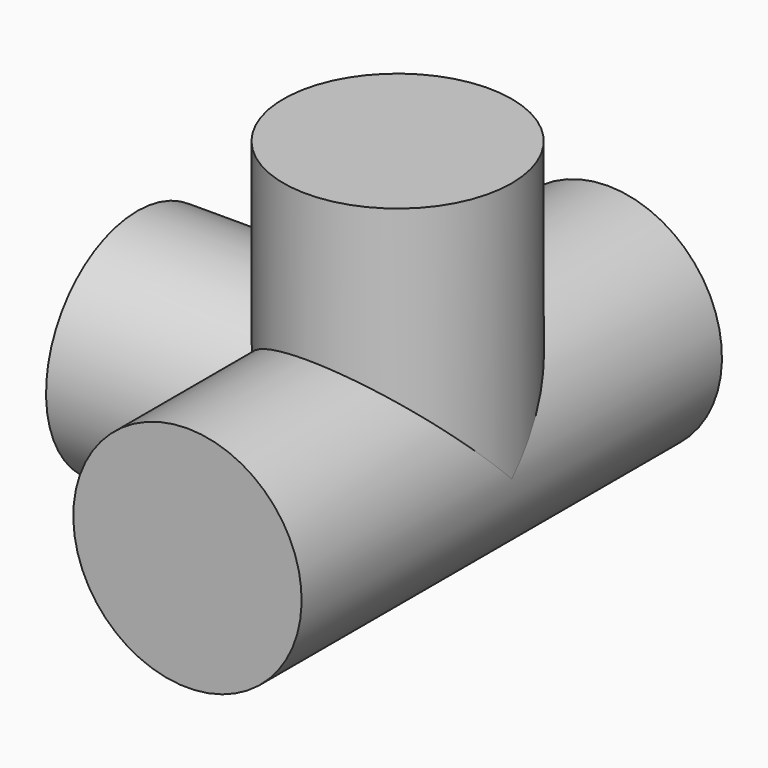
from build123d import *

# Parameters (mm, degrees)
CYLINDER015_R             = 13.9827
CYLINDER015_DEPTH         = 31.877
CYLINDER014_R             = 13.9827
CYLINDER014_DEPTH         = 64.36
CYLINDER016_R             = 13.9827
CYLINDER016_DEPTH         = 31.877
FUSION007_PLACEMENT_ANGLE = 90


with BuildPart() as cylinder015:
    # Cylinder015 → Cylinder015 (new body)
    with BuildSketch(Plane(origin=(0, 0, 0), x_dir=(0, 0, -1), z_dir=(1, 0, 0))):
        Circle(CYLINDER015_R)
    extrude(amount=CYLINDER015_DEPTH)


with BuildPart() as cylinder014:
    # Cylinder014 → Cylinder014 (new body)
    with BuildSketch(Plane.XZ.offset(-32.1818)):
        Circle(CYLINDER014_R)
    extrude(amount=CYLINDER014_DEPTH)


with BuildPart() as f_4_way001:
    # Cylinder016 → Cylinder016 (new body)
    with BuildSketch(Plane.XY):
        Circle(CYLINDER016_R)
    extrude(amount=CYLINDER016_DEPTH)

    # Fusion006: union Cylinder014
    add(cylinder014.part)

    # Fusion007: union Cylinder015
    add(cylinder015.part)


with BuildPart() as f_4_way001_1:
    # Fusion007 placement: moved
    add(f_4_way001.part.moved(Location((754, -15, 0))).rotate(Axis((754, -15, 0), (0, -1, 0)), FUSION007_PLACEMENT_ANGLE))


solid = f_4_way001_1.part
